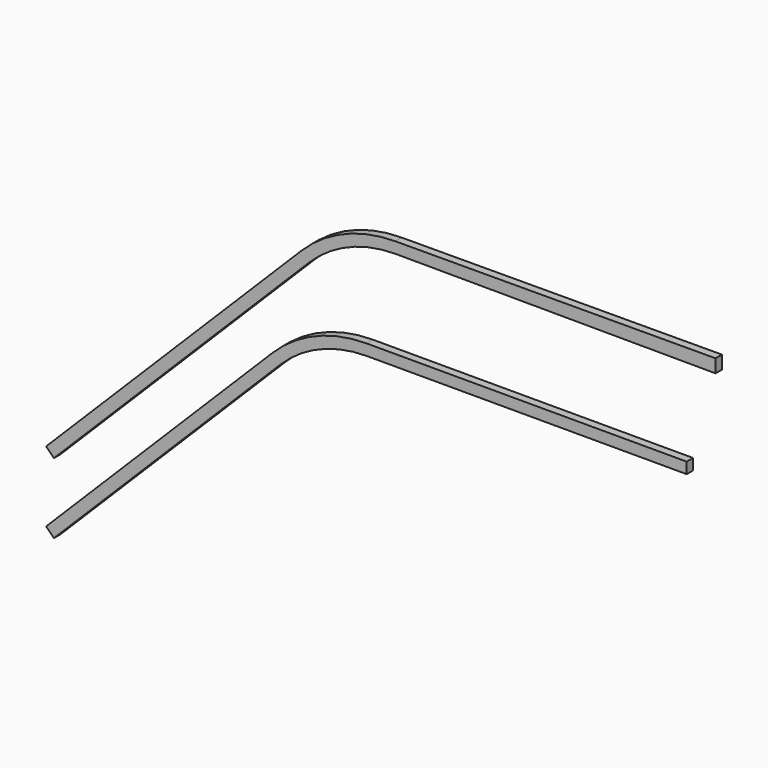
from build123d import *

# Parameters (mm, degrees)
F1_DEPTH = 25


with BuildPart() as f1:
    # F0 (on Front) → F1 (new body)
    with BuildSketch(Plane.XZ):
        with BuildLine():
            Line((786.146626, 1028.066936), (696.146626, 938.066936))
            Line((696.146626, 938.066936), (-10.960155, 230.960155))
            Line((-10.960155, 230.960155), (0, 220))
            Line((0, 220), (13.435029, 206.564971))
            Line((13.435029, 206.564971), (810.54181, 1003.671752))
            ThreePointArc((810.54181, 1003.671752), (934.147106, 1086.262171), (1079.949494, 1115.264069))
            Line((1079.949494, 1115.264069), (2079.949494, 1111.764069))
            Line((2079.949494, 1111.764069), (2079.949494, 1134.264069))
            Line((2079.949494, 1134.264069), (2079.949494, 1153.264069))
            Line((2079.949494, 1153.264069), (1079.949494, 1149.764069))
            ThreePointArc((1079.949494, 1149.764069), (920.944528, 1118.136014), (786.146626, 1028.066936))
        make_face()
        with BuildLine():
            Line((-10.960155, 10.960155), (0, 0))
            Line((0, 0), (13.435029, -13.435029))
            Line((13.435029, -13.435029), (720.54181, 693.671752))
            ThreePointArc((720.54181, 693.671752), (844.147106, 776.262171), (989.949494, 805.264069))
            Line((989.949494, 805.264069), (1989.949494, 805.264069))
            Line((1989.949494, 805.264069), (1989.949494, 824.264069))
            Line((1989.949494, 824.264069), (1989.949494, 839.764069))
            Line((1989.949494, 839.764069), (989.949494, 839.764069))
            ThreePointArc((989.949494, 839.764069), (830.944528, 808.136014), (696.146626, 718.066936))
            Line((696.146626, 718.066936), (-10.960155, 10.960155))
        make_face()
    extrude(amount=F1_DEPTH)


solid = f1.part
